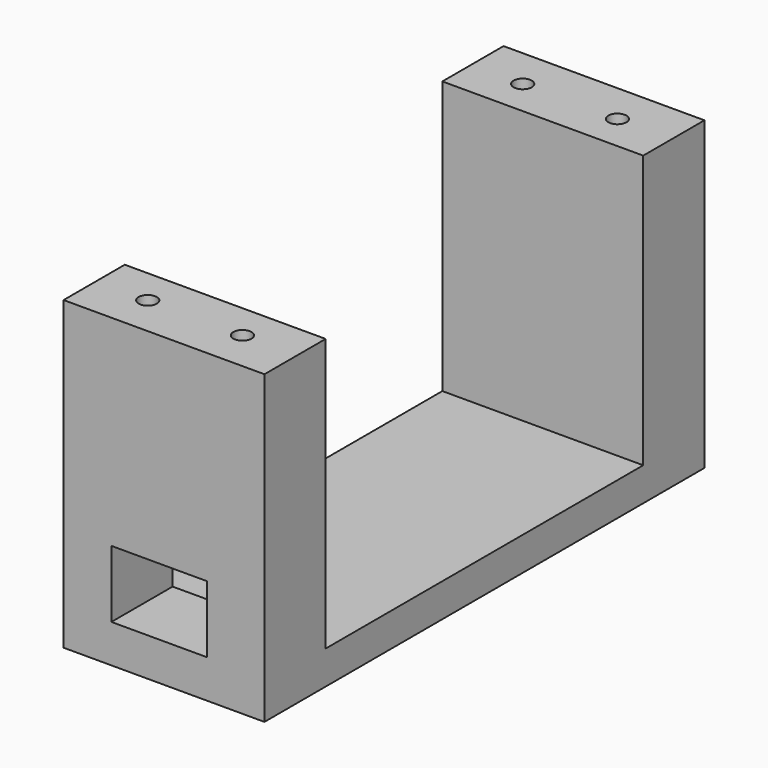
from build123d import *

# Parameters (mm, degrees)
CYLINDER002_R     = 0.95
CYLINDER002_DEPTH = 10
CYLINDER003_R     = 0.95
CYLINDER003_DEPTH = 10
CYLINDER_R        = 0.95
CYLINDER_DEPTH    = 10
CYLINDER001_R     = 0.95
CYLINDER001_DEPTH = 10
BOX_W             = 10
BOX_H             = 10
BOX_DEPTH         = 7
PAD_DEPTH         = 21


with BuildPart() as cylinder002:
    # Cylinder002 → Cylinder002 (new body)
    with BuildSketch(Plane(origin=(9.9, 0, 0), x_dir=(1, 0, 0), z_dir=(0, 0, 1))):
        Circle(CYLINDER002_R)
    extrude(amount=CYLINDER002_DEPTH)


with BuildPart() as tornillos001:
    # Cylinder003 → Cylinder003 (new body)
    with BuildSketch(Plane.XY):
        Circle(CYLINDER003_R)
    extrude(amount=CYLINDER003_DEPTH)

    # Fusion001: union Cylinder002
    add(cylinder002.part)


with BuildPart() as tornillos001_1:
    # Fusion001 placement: moved
    add(tornillos001.part.moved(Location((5, -24.5, 22))))


with BuildPart() as cylinder:
    # Cylinder → Cylinder (new body)
    with BuildSketch(Plane(origin=(9.9, 0, 0), x_dir=(1, 0, 0), z_dir=(0, 0, 1))):
        Circle(CYLINDER_R)
    extrude(amount=CYLINDER_DEPTH)


with BuildPart() as fusion002:
    # Cylinder001 → Cylinder001 (new body)
    with BuildSketch(Plane.XY):
        Circle(CYLINDER001_R)
    extrude(amount=CYLINDER001_DEPTH)

    # Fusion: union Cylinder
    add(cylinder.part)


with BuildPart() as fusion002_1:
    # Fusion placement: moved
    add(fusion002.part.moved(Location((5, 24.5, 22))))

    # Fusion002: union Tornillos001
    add(tornillos001_1.part)


with BuildPart() as fusion002_2:
    # Fusion002 placement: moved
    add(fusion002_1.part.moved(Location((0.4, 0, 0))))


with BuildPart() as cube:
    # Box → Box (new body)
    with BuildSketch(Plane(origin=(5, -29, 4), x_dir=(1, 0, 0), z_dir=(0, 0, 1))):
        with Locations((5, 5)):
            Rectangle(BOX_W, BOX_H)
    extrude(amount=BOX_DEPTH)


with BuildPart() as holder001:
    # Sketch → Pad (new body)
    with BuildSketch(Plane.YZ):
        Polygon((-28.75, 32), (-28.75, 0), (28.75, 0), (28.75, 32), (20.75, 32), (20.75, 3.5), (-20.75, 3.5), (-20.75, 32), align=None)
    extrude(amount=PAD_DEPTH)

    # Cut: cut Cube
    add(cube.part, mode=Mode.SUBTRACT)

    # Cut001: cut Fusion002
    add(fusion002_2.part, mode=Mode.SUBTRACT)


solid = holder001.part
